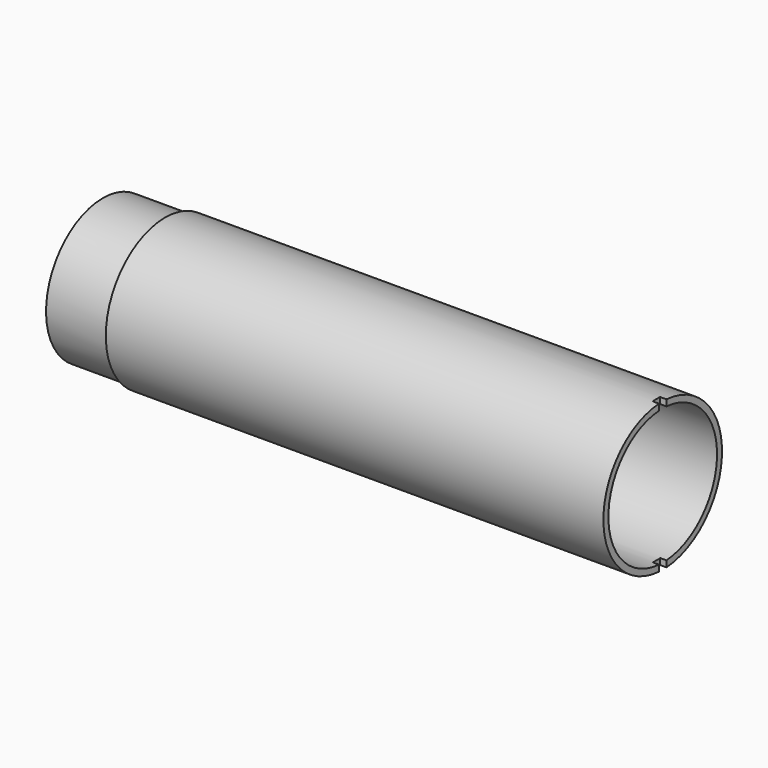
from build123d import *

# Parameters (mm, degrees)
F0_W     = 10
F0_H     = 0.5
F3_DEPTH = 12.5


with BuildPart() as f1:
    # F0 (on Front) → F1 (revolve)
    with BuildSketch(Plane.XZ):
        Polygon((48.59502, 11.912), (-31.35498, 11.912), (-31.35498, 11.412), (-31.35498, 10.912), (48.59502, 10.912), align=None)
        with Locations((-36.35498, 11.162)):
            Rectangle(F0_W, F0_H)
    revolve(axis=Axis((-21.928094, 0, 0), (1, 0, 0)))

    # F2 (on Top) → F3 (cut, symmetric)
    with BuildSketch(Plane.XY):
        Polygon((49.587989, -0.75), (49.587989, 0.75), (47.587989, 0.75), (47.587989, 0), (47.587989, -0.75), align=None)
    extrude(amount=F3_DEPTH, both=True, mode=Mode.SUBTRACT)


solid = f1.part
